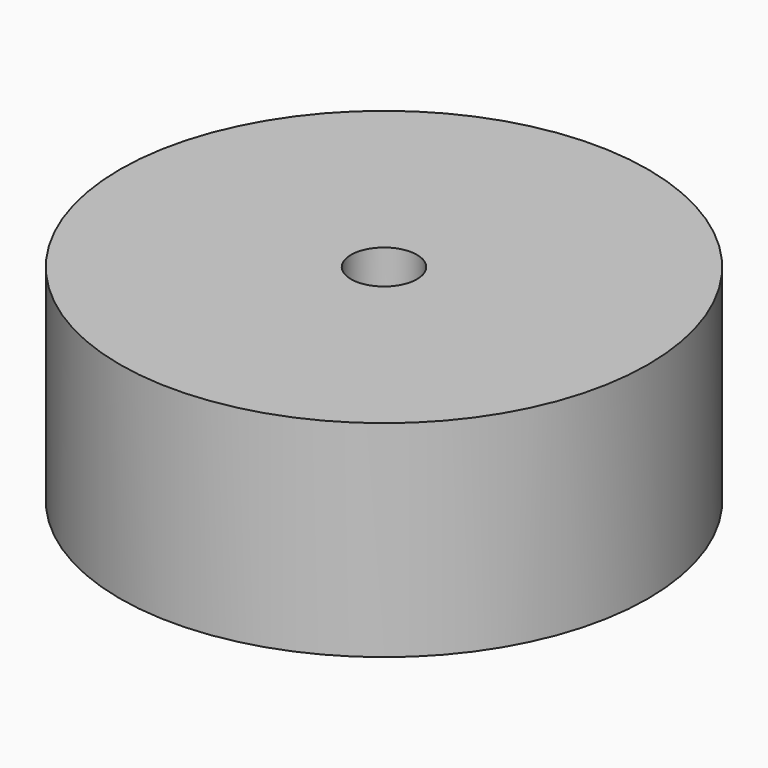
from build123d import *

# Parameters (mm, degrees)
SKETCH026_R   = 20
PAD004_DEPTH  = 5.6
SKETCH027_R   = 20
SKETCH027_R_2 = 2.5
PAD005_DEPTH  = 10
SKETCH028_R   = 3.07
SKETCH028_R_2 = 1.25
PAD006_DEPTH  = 2


with BuildPart() as part:
    # Sketch026 → Pad004 (new body)
    with BuildSketch(Plane.XY):
        with Locations((0, -0.05)):
            Circle(SKETCH026_R)
        with BuildLine():
            ThreePointArc((0, 3.9), (-1.225765, 3.773672), (-2.4, 3.4))
            Line((-2.4, 3.4), (-2.655951, 3.288515))
            Line((-2.655951, 3.288515), (-14, 2.6))
            ThreePointArc((-14, 2.6), (-15.64248, 1.735655), (-16.3, 0))
            ThreePointArc((-16.3, 0), (-15.64248, -1.735655), (-14, -2.6))
            Line((-2.655951, -3.288515), (-14, -2.6))
            Line((-2.4, -3.4), (-2.655951, -3.288515))
            ThreePointArc((-2.4, -3.4), (-1.225765, -3.773672), (0, -3.9))
            ThreePointArc((0, -3.9), (1.225765, -3.773672), (2.4, -3.4))
            Line((2.4, -3.4), (2.655951, -3.288515))
            Line((2.655951, -3.288515), (14, -2.6))
            ThreePointArc((14, -2.6), (15.64248, -1.735655), (16.3, 0))
            ThreePointArc((16.3, 0), (15.64248, 1.735655), (14, 2.6))
            Line((2.655951, 3.288515), (14, 2.6))
            Line((2.4, 3.4), (2.655951, 3.288515))
            ThreePointArc((2.4, 3.4), (1.225765, 3.773672), (0, 3.9))
        make_face(mode=Mode.SUBTRACT)
    extrude(amount=PAD004_DEPTH)

    # Sketch027 (on Face11 of Pad004) → Pad005 (join)
    with BuildSketch(Plane.XY.offset(5.6)):
        with Locations((0, -0.05)):
            Circle(SKETCH027_R)
        with Locations((0, -0.05)):
            Circle(SKETCH027_R_2, mode=Mode.SUBTRACT)
    extrude(amount=PAD005_DEPTH)

    # Sketch028 (on Face14 of Pad005) → Pad006 (join)
    with BuildSketch(Plane(origin=(0, 0, 5.6), x_dir=(1, 0, 0), z_dir=(0, 0, -1))):
        Circle(SKETCH028_R)
        Circle(SKETCH028_R_2, mode=Mode.SUBTRACT)
    extrude(amount=-PAD006_DEPTH)


solid = part.part
